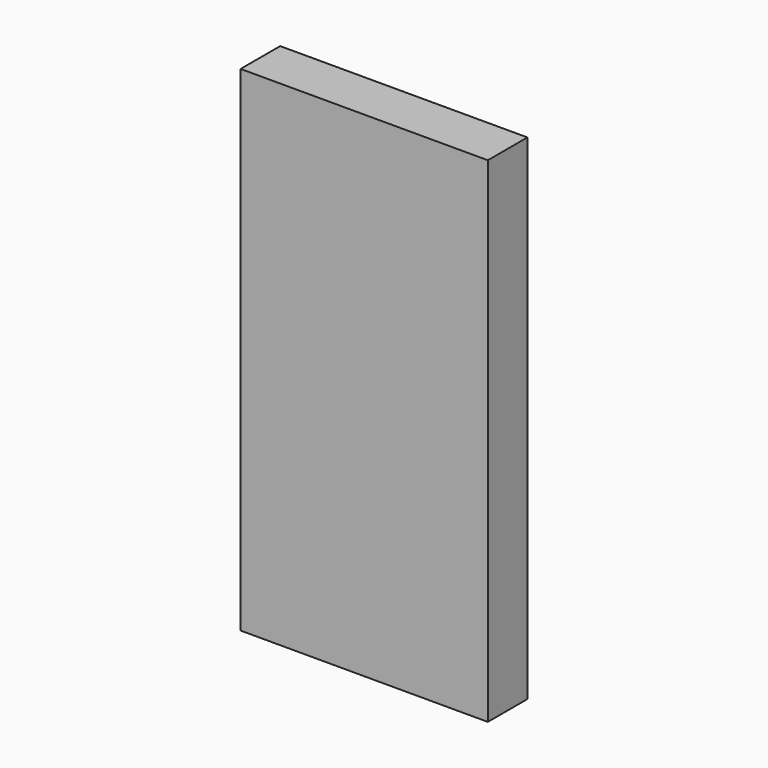
from build123d import *

# Parameters (mm, degrees)
SKETCH_W      = 25
SKETCH_H      = 5
EXTRUDE_DEPTH = 50


with BuildPart() as part:
    # Sketch → Extrude (new body)
    with BuildSketch(Plane.XY):
        Rectangle(SKETCH_W, SKETCH_H)
    extrude(amount=EXTRUDE_DEPTH)


solid = part.part
